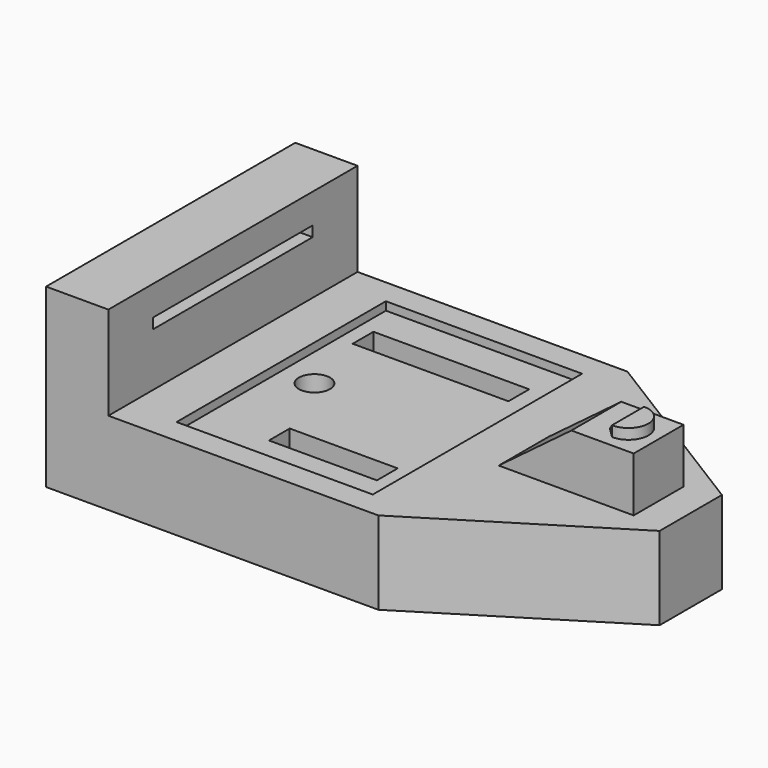
from build123d import *

# Parameters (mm, degrees)
SKETCH_R          = 1.5
PAD_DEPTH         = 8
SKETCH001_W       = 18.9
SKETCH001_H       = 25.2
POCKET_DEPTH      = 0.8
SKETCH002_W       = 15
SKETCH002_H       = 2.5
SKETCH002_W_2     = 10.4
POCKET001_DEPTH   = 3
SKETCH003_W       = 6
SKETCH003_H       = 30
PAD001_DEPTH      = 9
SKETCH004_W       = 19.2
SKETCH004_H       = 1
POCKET002_DEPTH   = 2
POCKET003_DEPTH   = 3
PAD002_DEPTH      = 3
PAD002_DEPTH_BACK = 3
PAD003_DEPTH      = 1
CHAMFER_SIZE      = 0.95


with BuildPart() as part:
    # Sketch → Pad (new body)
    with BuildSketch(Plane.XY):
        Polygon((-20.1, 15), (11.9, 15), (30, 3.75), (30, -3.75), (11.9, -15), (-20.1, -15), align=None)
        with Locations((-6.25, 0)):
            Circle(SKETCH_R, mode=Mode.SUBTRACT)
    extrude(amount=-PAD_DEPTH)

    # Sketch001 → Pocket (cut)
    with BuildSketch(Plane.XY):
        Rectangle(SKETCH001_W, SKETCH001_H)
    extrude(amount=-POCKET_DEPTH, mode=Mode.SUBTRACT)

    # Sketch002 (on Face33 of Pad003) → Pocket001 (cut)
    with BuildSketch(Plane.XY.offset(-0.8)):
        with Locations((-0.534042, 8.083783)):
            Rectangle(SKETCH002_W, SKETCH002_H)
        with Locations((2.090713, -8.153236)):
            Rectangle(SKETCH002_W_2, SKETCH002_H)
    extrude(amount=-POCKET001_DEPTH, mode=Mode.SUBTRACT)

    # Sketch003 (on Face4 of Pocket001) → Pad001 (join)
    with BuildSketch(Plane.XY):
        with Locations((-17.1, 0)):
            Rectangle(SKETCH003_W, SKETCH003_H)
    extrude(amount=PAD001_DEPTH)

    # Sketch004 (on Face10 of Pad001) → Pocket002 (cut)
    with BuildSketch(Plane.YZ.offset(-14.1)):
        with Locations((0, 5.64)):
            Rectangle(SKETCH004_W, SKETCH004_H)
    extrude(amount=-POCKET002_DEPTH, mode=Mode.SUBTRACT)

    # Sketch005 → Pocket003 (cut)
    with BuildSketch(Plane(origin=(0, 0, -8), x_dir=(1, 0, 0), z_dir=(0, 0, -1))):
        Polygon((-4.633419, 2.8), (-7.866581, 2.8), (-9.483162, 0), (-7.866581, -2.8), (-4.633419, -2.8), (-3.016838, 0), align=None)
    extrude(amount=-POCKET003_DEPTH, mode=Mode.SUBTRACT)

    # Sketch006 → Pad002 (join, two sides)
    with BuildSketch(Plane.XZ) as pad002_sk:
        Polygon((13.9, 0), (20.9, 5.25), (26.9, 5.25), (26.9, 0), align=None)
    extrude(amount=PAD002_DEPTH)
    extrude(pad002_sk.sketch, amount=-PAD002_DEPTH_BACK)

    # Sketch007 (on Face32 of Pad002) → Pad003 (join)
    with BuildSketch(Plane.XY.offset(5.25)):
        with BuildLine():
            ThreePointArc((24, -1.925), (25.925, 0), (24, 1.925))
            Line((24, 1.925), (23, 1.925))
            Line((23, 1.925), (23, -1.925))
            Line((23, -1.925), (24, -1.925))
        make_face()
    extrude(amount=PAD003_DEPTH)

    # Chamfer
    chamfer_edges = [part.edges().sort_by_distance(p)[0] for p in [
        (23, 0, 6.25),
        (23, -1.925, 5.75),
        (23, 1.925, 5.75),
    ]]
    chamfer(chamfer_edges, length=CHAMFER_SIZE)


solid = part.part
